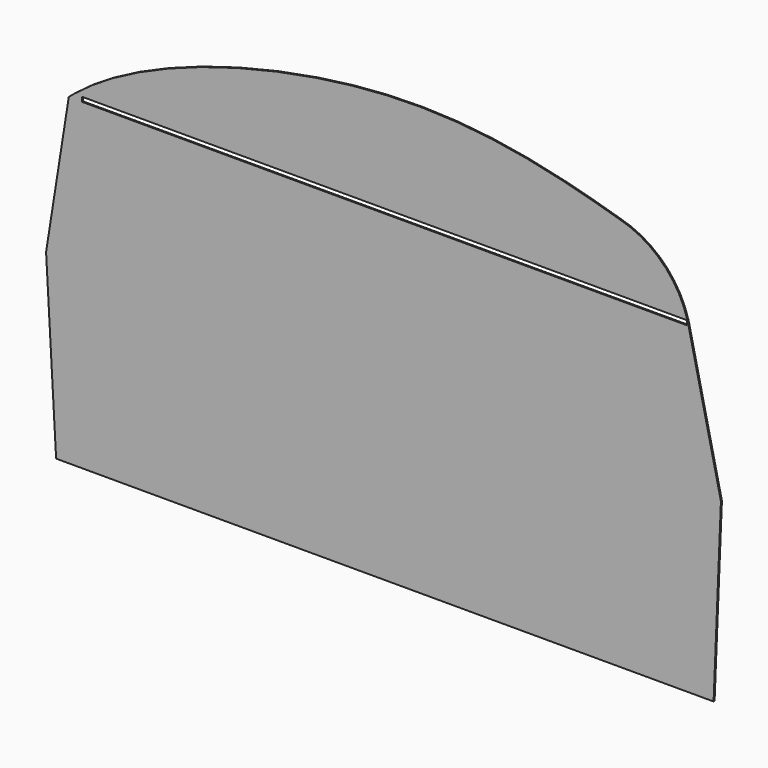
from build123d import *

# Parameters (mm, degrees)
F1_DEPTH = 5


with BuildPart() as f1:
    # F0 (on Front) → F1 (new body)
    with BuildSketch(Plane.XZ):
        Polygon((-1751.8359871062, -2680.6445531845), (-1301.8359871062, -2680.6445531845), (-1272.2757193561, -1960.6445531845), (-3992.2757193561, -1960.6445531845), (-3951.8359871062, -2680.6445531845), (-2351.8359871062, -2680.6445531845), align=None)
        Polygon((-3992.2757193561, -1960.6445531845), (-1272.2757193561, -1960.6445531845), (-1402.7283334229, -1380.6445531845), (-1409.9237918854, -1380.6445531845), (-3848.4160900116, -1380.6445531845), (-3900.8176115902, -1380.6445531845), align=None)
        with BuildLine():
            Line((-1409.9237918854, -1380.6445531845), (-1402.7283334229, -1380.6445531845))
            ThreePointArc((-1402.7283334229, -1380.6445531845), (-1404.8733221137, -1371.617393178), (-1407.2352570657, -1362.6445531845))
            Line((-1407.2352570657, -1362.6445531845), (-1409.9237918854, -1362.6445531845))
            Line((-1409.9237918854, -1362.6445531845), (-1409.9237918854, -1380.6445531845))
        make_face()
        with BuildLine():
            add(Edge.make_bspline(
                [(-3900.8176115902, -1380.6445531845), (-3893.9229894345, -1374.5892924852), (-3886.8552522948, -1368.589080147), (-3879.620532999, -1362.6445531845)],
                knots=[0, 0, 0, 0, 0.0136413851, 0.0136413851, 0.0136413851, 0.0136413851], degree=3))
            Line((-3900.8176115902, -1380.6445531845), (-3848.4160900116, -1380.6445531845))
            Line((-3848.4160900116, -1380.6445531845), (-3848.4160900116, -1362.6445531845))
            Line((-3848.4160900116, -1362.6445531845), (-3879.620532999, -1362.6445531845))
        make_face()
        with BuildLine():
            Line((-1409.9237918854, -1362.6445531845), (-1407.2352570657, -1362.6445531845))
            ThreePointArc((-1407.2352570657, -1362.6445531845), (-1507.8215805234, -1191.2011417655), (-1680.5239915848, -1092.7921533585))
            add(Edge.make_bspline(
                [(-3879.620532999, -1362.6445531845), (-3603.12312988, -1135.4558813494), (-2618.5664613174, -859.5105731667), (-1986.4067119692, -1001.9832394606), (-1680.5239915848, -1092.7921533585)],
                knots=[0.0136413851, 0.0136413851, 0.0136413851, 0.0136413851, 0.5349895413, 1, 1, 1, 1], degree=3))
            Line((-3879.620532999, -1362.6445531845), (-3848.4160900116, -1362.6445531845))
            Line((-3848.4160900116, -1362.6445531845), (-1409.9237918854, -1362.6445531845))
        make_face()
    extrude(amount=F1_DEPTH)


solid = f1.part
